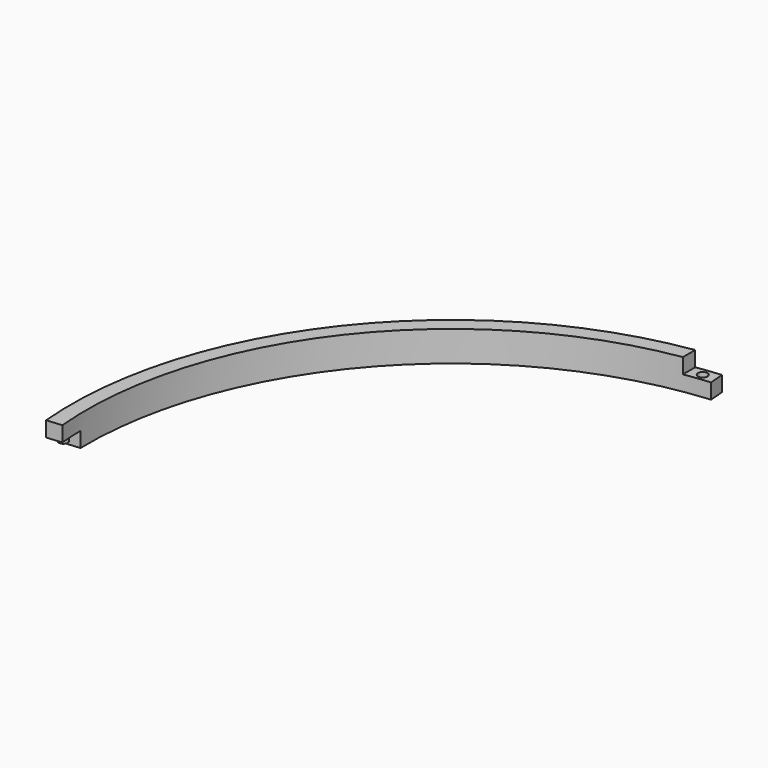
from build123d import *

# Parameters (mm, degrees)
F1_DEPTH = 10
F3_DEPTH = 5
F5_DEPTH = 5
F6_R     = 1.5
F7_DEPTH = 2
F8_R     = 1.55
F9_DEPTH = 2.2


with BuildPart() as f1:
    # F0 (on Top) → F1 (new body)
    with BuildSketch(Plane.XY):
        with BuildLine():
            ThreePointArc((-119.543364, -10.458689), (-91.925333, 77.134513), (-10.458689, 119.543364))
            Line((-10.458689, 119.543364), (-10.894468, 124.524337))
            ThreePointArc((-10.894468, 124.524337), (-95.755555, 80.348451), (-124.524337, -10.894468))
            Line((-124.524337, -10.894468), (-119.543364, -10.458689))
        make_face()
    extrude(amount=F1_DEPTH)

    # F2 (on face) → F3 (cut)
    with BuildSketch(Plane(origin=(0, 0, 0), x_dir=(1, 0, 0), z_dir=(0, 0, -1))):
        with BuildLine():
            ThreePointArc((-119.974809, 2.458689), (-119.825869, 6.462291), (-119.543364, 10.458689))
            Line((-119.543364, 10.458689), (-124.524337, 10.894468))
            ThreePointArc((-124.524337, 10.894468), (-124.809525, 6.898011), (-124.966484, 2.894468))
            Line((-124.966484, 2.894468), (-119.974809, 2.458689))
        make_face()
    extrude(amount=-F3_DEPTH, mode=Mode.SUBTRACT)

    # F4 (on face) → F5 (cut)
    with BuildSketch(Plane.XY.offset(10)):
        with BuildLine():
            ThreePointArc((-18.894468, 118.503161), (-14.685791, 119.097975), (-10.458689, 119.543364))
            Line((-10.458689, 119.543364), (-10.894468, 124.524337))
            ThreePointArc((-10.894468, 124.524337), (-14.90221, 124.108518), (-18.894468, 123.563745))
            Line((-18.894468, 123.563745), (-18.894468, 118.503161))
        make_face()
    extrude(amount=-F5_DEPTH, mode=Mode.SUBTRACT)

    # F6 (on face) → F7 (join)
    with BuildSketch(Plane(origin=(0, 0, 5), x_dir=(1, 0, 0), z_dir=(0, 0, -1))):
        with Locations((-122.219087, 6.691388)):
            Circle(F6_R)
    extrude(amount=F7_DEPTH)

    # F8 (on face) → F9 (cut)
    with BuildSketch(Plane.XY.offset(5)):
        with Locations((-14.790966, 121.532989)):
            Circle(F8_R)
    extrude(amount=-F9_DEPTH, mode=Mode.SUBTRACT)


solid = f1.part
